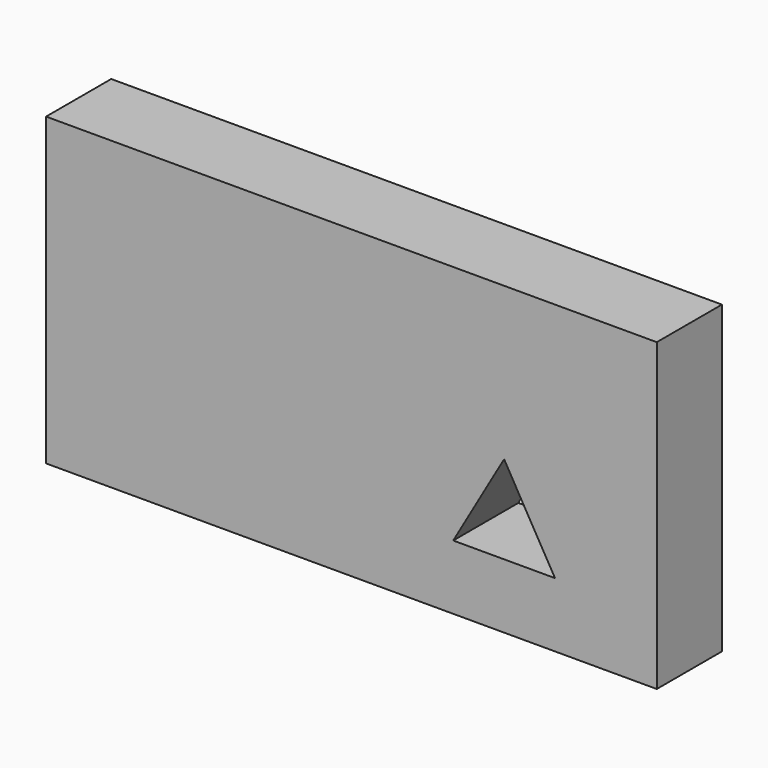
from build123d import *

# Parameters (mm, degrees)
F0_W     = 152.4
F0_H     = 76.2
F0_R     = 12.7
F1_DEPTH = 20.32
F2_DEPTH = 31.75


with BuildPart() as f1:
    # F0 (on Front) → F1 (new body)
    with BuildSketch(Plane.XZ):
        with Locations((-31.75, 0)):
            Rectangle(F0_W, F0_H)
        Polygon((-6.35, -21.9970452561), (6.35, 0), (19.05, -21.9970452561), align=None, mode=Mode.SUBTRACT)
        with Locations((-82.55, 0)):
            Circle(F0_R, mode=Mode.SUBTRACT)
        Polygon((-22.225, 9.525), (-22.225, 0), (-22.225, -9.525), (-41.275, -9.525), (-41.275, 0), (-41.275, 9.525), align=None, mode=Mode.SUBTRACT)
        with Locations((-82.55, 0)):
            Circle(F0_R)
        Polygon((-31.75, 0), (-22.225, 0), (-22.225, 9.525), (-41.275, 9.525), (-41.275, 0), align=None)
        Polygon((-22.225, -9.525), (-22.225, 0), (-31.75, 0), (-41.275, 0), (-41.275, -9.525), align=None)
    extrude(amount=F1_DEPTH)

    # F0 (on Front) → F2 (join)
    with BuildSketch(Plane.XZ):
        with Locations((-82.55, 0)):
            Circle(F0_R)
        Polygon((-31.75, 0), (-22.225, 0), (-22.225, 9.525), (-41.275, 9.525), (-41.275, 0), align=None)
        Polygon((-22.225, -9.525), (-22.225, 0), (-31.75, 0), (-41.275, 0), (-41.275, -9.525), align=None)
    extrude(amount=-F2_DEPTH)


solid = f1.part
